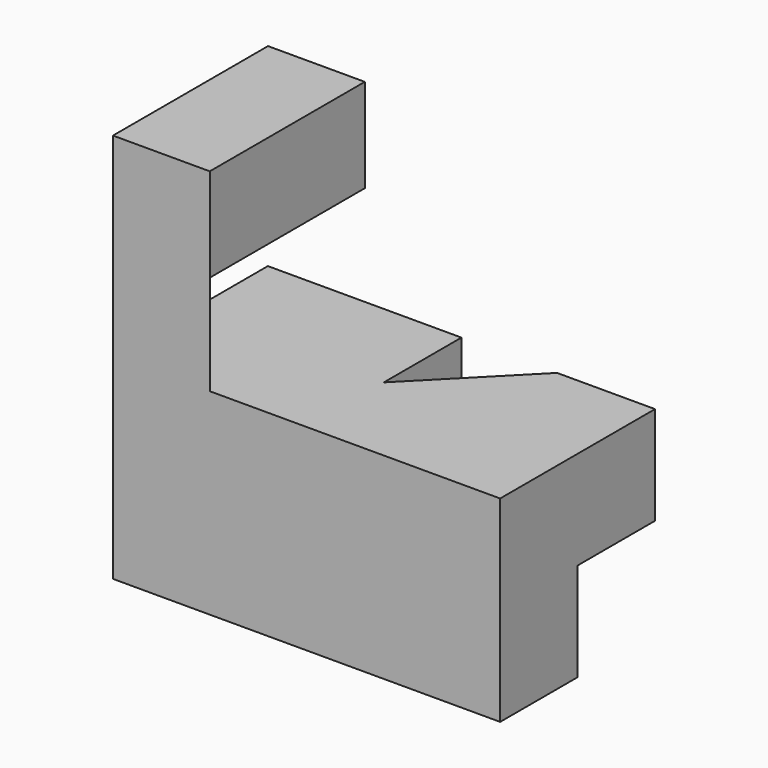
from build123d import *

# Parameters (mm, degrees)
F0_W      = 15.748
F0_H      = 15.748
F1_DEPTH  = 16.002
F3_DEPTH  = 8.128
F5_DEPTH  = 7.62
F6_W      = 7.874
F6_H      = 16.002
F7_DEPTH  = 15.748
F8_W      = 7.971476
F8_H      = 8.001
F9_DEPTH  = 7.874
F11_DEPTH = 8.001


with BuildPart() as f1:
    # F0 (on Top) → F1 (new body)
    with BuildSketch(Plane.XY):
        Rectangle(F0_W, F0_H)
    extrude(amount=F1_DEPTH)

    # F2 (on face) → F3 (join)
    with BuildSketch(Plane.XY.offset(16.002)):
        Polygon((0, -7.874), (-7.874, 0), (-7.874, -7.874), align=None)
    extrude(amount=F3_DEPTH)

    # F4 (on face) → F5 (join)
    with BuildSketch(Plane.XY.offset(24.13)):
        Polygon((-7.874, 0), (0, -7.874), (0, 7.889553), (-7.874, 7.889553), align=None)
        Polygon((-7.874, 0), (-7.874, -7.874), (0, -7.874), align=None)
    extrude(amount=F5_DEPTH)

    # F6 (on face) → F7 (join)
    with BuildSketch(Plane.YZ.offset(7.874)):
        with Locations((-3.937, 8.001)):
            Rectangle(F6_W, F6_H)
    extrude(amount=F7_DEPTH)

    # F8 (on face) → F9 (join, through all)
    with BuildSketch(Plane(origin=(0, 0, 0), x_dir=(-1, 0, 0), z_dir=(0, 1, 0))):
        with Locations((-19.636262, 12.0015)):
            Rectangle(F8_W, F8_H)
    extrude(amount=F9_DEPTH)

    # F10 (on face) → F11 (join, through all)
    with BuildSketch(Plane(origin=(0, 0, 8.001), x_dir=(1, 0, 0), z_dir=(0, 0, -1))):
        Polygon((7.865508, 0.029401), (15.650524, -7.874), (15.650524, 0), align=None)
    extrude(amount=-F11_DEPTH)


solid = f1.part
